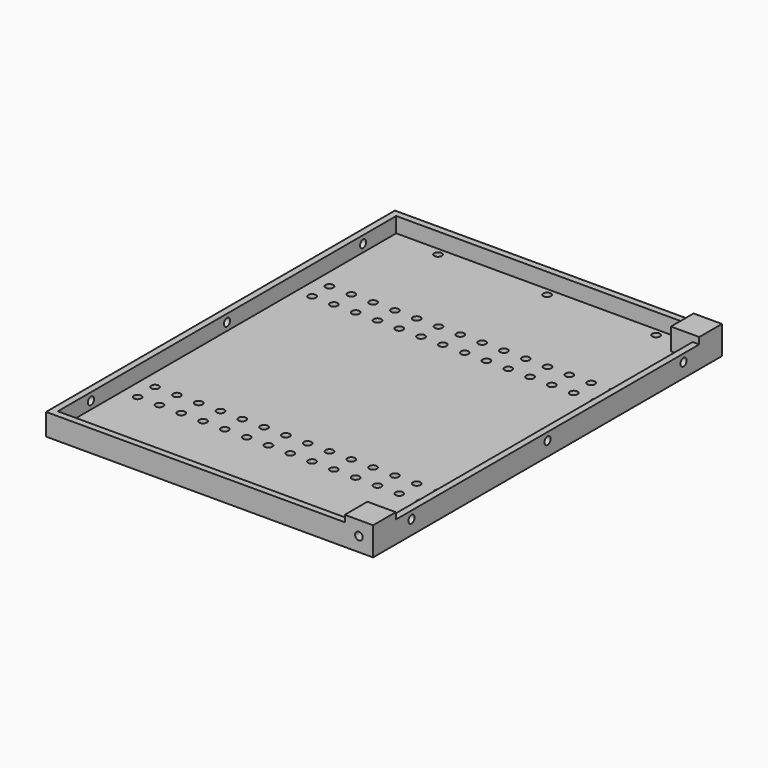
from build123d import *

# Parameters (mm, degrees)
SKETCH_W        = 150
SKETCH_H        = 200
SKETCH_R        = 1.75
PAD_DEPTH       = 3
SKETCH001_W     = 150
SKETCH001_H     = 200
PAD001_DEPTH    = 7
SKETCH005_W     = 13
SKETCH005_H     = 13
PAD002_DEPTH    = 3
SKETCH002_R     = 1.75
POCKET_DEPTH    = 5
SKETCH003_R     = 1.75
POCKET001_DEPTH = 5
SKETCH004_R     = 1.75
POCKET002_DEPTH = 14


with BuildPart() as part:
    # Sketch → Pad (new body)
    with BuildSketch(Plane.XY):
        with Locations((-75, 100)):
            Rectangle(SKETCH_W, SKETCH_H)
        with Locations((-140, 40)):
            Circle(SKETCH_R, mode=Mode.SUBTRACT)
        with Locations((-130, 40)):
            Circle(SKETCH_R, mode=Mode.SUBTRACT)
        with Locations((-120, 40)):
            Circle(SKETCH_R, mode=Mode.SUBTRACT)
        with Locations((-110, 40)):
            Circle(SKETCH_R, mode=Mode.SUBTRACT)
        with Locations((-100, 40)):
            Circle(SKETCH_R, mode=Mode.SUBTRACT)
        with Locations((-90, 40)):
            Circle(SKETCH_R, mode=Mode.SUBTRACT)
        with Locations((-80, 40)):
            Circle(SKETCH_R, mode=Mode.SUBTRACT)
        with Locations((-70, 40)):
            Circle(SKETCH_R, mode=Mode.SUBTRACT)
        with Locations((-60, 40)):
            Circle(SKETCH_R, mode=Mode.SUBTRACT)
        with Locations((-50, 40)):
            Circle(SKETCH_R, mode=Mode.SUBTRACT)
        with Locations((-40, 40)):
            Circle(SKETCH_R, mode=Mode.SUBTRACT)
        with Locations((-30, 40)):
            Circle(SKETCH_R, mode=Mode.SUBTRACT)
        with Locations((-20, 40)):
            Circle(SKETCH_R, mode=Mode.SUBTRACT)
        with Locations((-10, 40)):
            Circle(SKETCH_R, mode=Mode.SUBTRACT)
        with Locations((-140, 50)):
            Circle(SKETCH_R, mode=Mode.SUBTRACT)
        with Locations((-130, 50)):
            Circle(SKETCH_R, mode=Mode.SUBTRACT)
        with Locations((-120, 50)):
            Circle(SKETCH_R, mode=Mode.SUBTRACT)
        with Locations((-110, 50)):
            Circle(SKETCH_R, mode=Mode.SUBTRACT)
        with Locations((-100, 50)):
            Circle(SKETCH_R, mode=Mode.SUBTRACT)
        with Locations((-90, 50)):
            Circle(SKETCH_R, mode=Mode.SUBTRACT)
        with Locations((-80, 50)):
            Circle(SKETCH_R, mode=Mode.SUBTRACT)
        with Locations((-70, 50)):
            Circle(SKETCH_R, mode=Mode.SUBTRACT)
        with Locations((-60, 50)):
            Circle(SKETCH_R, mode=Mode.SUBTRACT)
        with Locations((-50, 50)):
            Circle(SKETCH_R, mode=Mode.SUBTRACT)
        with Locations((-40, 50)):
            Circle(SKETCH_R, mode=Mode.SUBTRACT)
        with Locations((-30, 50)):
            Circle(SKETCH_R, mode=Mode.SUBTRACT)
        with Locations((-20, 50)):
            Circle(SKETCH_R, mode=Mode.SUBTRACT)
        with Locations((-10, 50)):
            Circle(SKETCH_R, mode=Mode.SUBTRACT)
        with Locations((-140, 140)):
            Circle(SKETCH_R, mode=Mode.SUBTRACT)
        with Locations((-130, 140)):
            Circle(SKETCH_R, mode=Mode.SUBTRACT)
        with Locations((-120, 140)):
            Circle(SKETCH_R, mode=Mode.SUBTRACT)
        with Locations((-110, 140)):
            Circle(SKETCH_R, mode=Mode.SUBTRACT)
        with Locations((-100, 140)):
            Circle(SKETCH_R, mode=Mode.SUBTRACT)
        with Locations((-90, 140)):
            Circle(SKETCH_R, mode=Mode.SUBTRACT)
        with Locations((-80, 140)):
            Circle(SKETCH_R, mode=Mode.SUBTRACT)
        with Locations((-70, 140)):
            Circle(SKETCH_R, mode=Mode.SUBTRACT)
        with Locations((-60, 140)):
            Circle(SKETCH_R, mode=Mode.SUBTRACT)
        with Locations((-50, 140)):
            Circle(SKETCH_R, mode=Mode.SUBTRACT)
        with Locations((-40, 140)):
            Circle(SKETCH_R, mode=Mode.SUBTRACT)
        with Locations((-30, 140)):
            Circle(SKETCH_R, mode=Mode.SUBTRACT)
        with Locations((-20, 140)):
            Circle(SKETCH_R, mode=Mode.SUBTRACT)
        with Locations((-10, 140)):
            Circle(SKETCH_R, mode=Mode.SUBTRACT)
        with Locations((-140, 150)):
            Circle(SKETCH_R, mode=Mode.SUBTRACT)
        with Locations((-130, 150)):
            Circle(SKETCH_R, mode=Mode.SUBTRACT)
        with Locations((-120, 150)):
            Circle(SKETCH_R, mode=Mode.SUBTRACT)
        with Locations((-110, 150)):
            Circle(SKETCH_R, mode=Mode.SUBTRACT)
        with Locations((-100, 150)):
            Circle(SKETCH_R, mode=Mode.SUBTRACT)
        with Locations((-90, 150)):
            Circle(SKETCH_R, mode=Mode.SUBTRACT)
        with Locations((-80, 150)):
            Circle(SKETCH_R, mode=Mode.SUBTRACT)
        with Locations((-70, 150)):
            Circle(SKETCH_R, mode=Mode.SUBTRACT)
        with Locations((-60, 150)):
            Circle(SKETCH_R, mode=Mode.SUBTRACT)
        with Locations((-50, 150)):
            Circle(SKETCH_R, mode=Mode.SUBTRACT)
        with Locations((-40, 150)):
            Circle(SKETCH_R, mode=Mode.SUBTRACT)
        with Locations((-30, 150)):
            Circle(SKETCH_R, mode=Mode.SUBTRACT)
        with Locations((-20, 150)):
            Circle(SKETCH_R, mode=Mode.SUBTRACT)
        with Locations((-10, 150)):
            Circle(SKETCH_R, mode=Mode.SUBTRACT)
        with Locations((-125, 193.5)):
            Circle(SKETCH_R, mode=Mode.SUBTRACT)
        with Locations((-125, 6.5)):
            Circle(SKETCH_R, mode=Mode.SUBTRACT)
        with Locations((-25, 6.5)):
            Circle(SKETCH_R, mode=Mode.SUBTRACT)
        with Locations((-75, 6.5)):
            Circle(SKETCH_R, mode=Mode.SUBTRACT)
        with Locations((-25, 193.5)):
            Circle(SKETCH_R, mode=Mode.SUBTRACT)
        with Locations((-75, 193.5)):
            Circle(SKETCH_R, mode=Mode.SUBTRACT)
    extrude(amount=PAD_DEPTH)

    # Sketch001 (on DatumPlane) → Pad001 (join)
    with BuildSketch(Plane.XY.offset(3)):
        with Locations((-75, 100)):
            Rectangle(SKETCH001_W, SKETCH001_H)
        Polygon((-147, 197), (-13, 197), (-13, 187), (-3, 187), (-3, 13), (-13, 13), (-13, 3), (-147, 3), align=None, mode=Mode.SUBTRACT)
    extrude(amount=PAD001_DEPTH)

    # Sketch005 (on DatumPlane) → Pad002 (join)
    with BuildSketch(Plane.XY.offset(10)):
        with Locations((-6.5, 193.5)):
            Rectangle(SKETCH005_W, SKETCH005_H)
        with Locations((-6.5, 6.5)):
            Rectangle(SKETCH005_W, SKETCH005_H)
    extrude(amount=PAD002_DEPTH)

    # Sketch002 → Pocket (cut)
    with BuildSketch(Plane.YZ):
        with Locations((100, 6.5)):
            Circle(SKETCH002_R)
        with Locations((22, 6.5)):
            Circle(SKETCH002_R)
        with Locations((178, 6.5)):
            Circle(SKETCH002_R)
    extrude(amount=-POCKET_DEPTH, mode=Mode.SUBTRACT)

    # Sketch003 → Pocket001 (cut)
    with BuildSketch(Plane.YZ.offset(-150)):
        with Locations((100, 6.5)):
            Circle(SKETCH003_R)
        with Locations((22, 6.5)):
            Circle(SKETCH003_R)
        with Locations((178, 6.5)):
            Circle(SKETCH003_R)
    extrude(amount=POCKET001_DEPTH, mode=Mode.SUBTRACT)

    # Sketch004 → Pocket002 (cut)
    with BuildSketch(Plane.XZ):
        with Locations((-6.5, 6.5)):
            Circle(SKETCH004_R)
    extrude(amount=-POCKET002_DEPTH, mode=Mode.SUBTRACT)


solid = part.part
